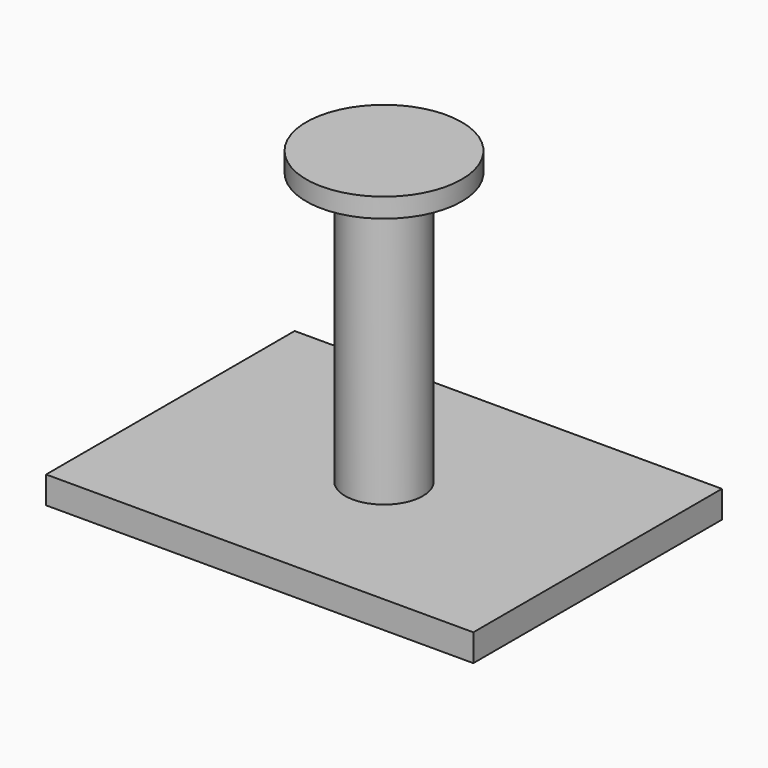
from build123d import *

# Parameters (mm, degrees)
F0_R     = 25.4
F1_DEPTH = 6.35
F2_R     = 12.7
F3_DEPTH = 88.9
F4_W     = 139.7
F4_H     = 101.6
F5_DEPTH = 8.89


with BuildPart() as f1:
    # F0 (on Top) → F1 (new body)
    with BuildSketch(Plane.XY):
        Circle(F0_R)
    extrude(amount=-F1_DEPTH)

    # F2 (on face) → F3 (join)
    with BuildSketch(Plane(origin=(0, 0, -6.35), x_dir=(1, 0, 0), z_dir=(0, 0, -1))):
        Circle(F2_R)
    extrude(amount=F3_DEPTH)

    # F4 (on face) → F5 (join)
    with BuildSketch(Plane(origin=(0, 0, -95.25), x_dir=(1, 0, 0), z_dir=(0, 0, -1))):
        Rectangle(F4_W, F4_H)
    extrude(amount=F5_DEPTH)


solid = f1.part
